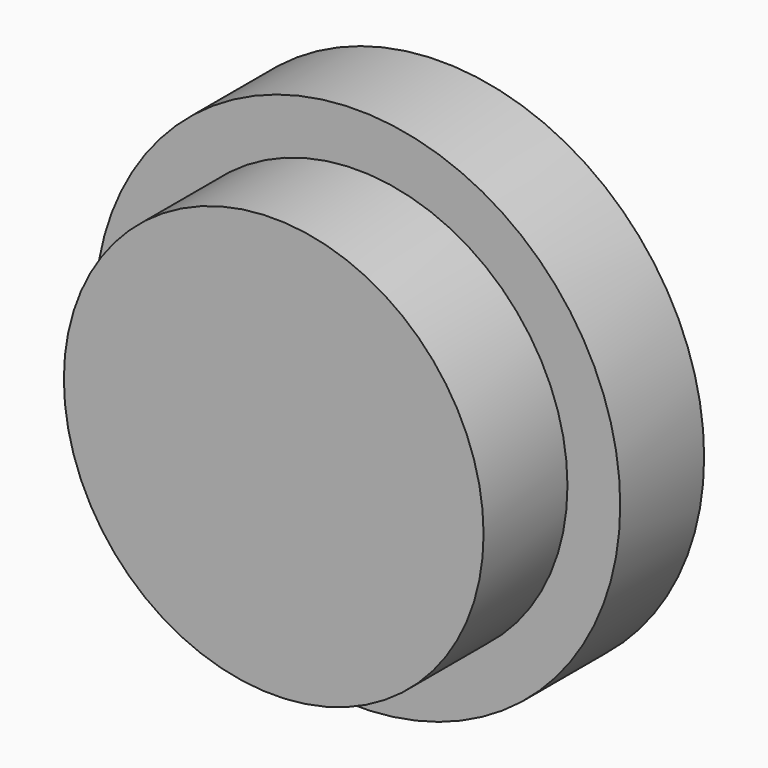
from build123d import *

# Parameters (mm, degrees)
F2_W     = 25.016323
F2_H     = 27.49747
F3_DEPTH = 25.4
F0_R     = 63.612596
F1_R     = 32.019182
F4_DEPTH = 25.4
F5_R     = 50.830077
F6_DEPTH = 25.4


with BuildPart() as f3:
    # F2 (on face) → F3 (new body)
    with BuildSketch(Plane.XZ):
        with Locations((0.191535, -0.859296)):
            Rectangle(F2_W, F2_H)
    extrude(amount=F3_DEPTH)

    # F0 (on Front) + F1 (on face) → F4 (join)
    with BuildSketch(Plane.XZ):
        Circle(F0_R)
    with BuildSketch(Plane.XZ):
        Circle(F1_R)
    extrude(amount=F4_DEPTH)

    # F5 (on face) → F6 (join)
    with BuildSketch(Plane.XZ.offset(25.4)):
        Circle(F5_R)
    extrude(amount=F6_DEPTH)


solid = f3.part
